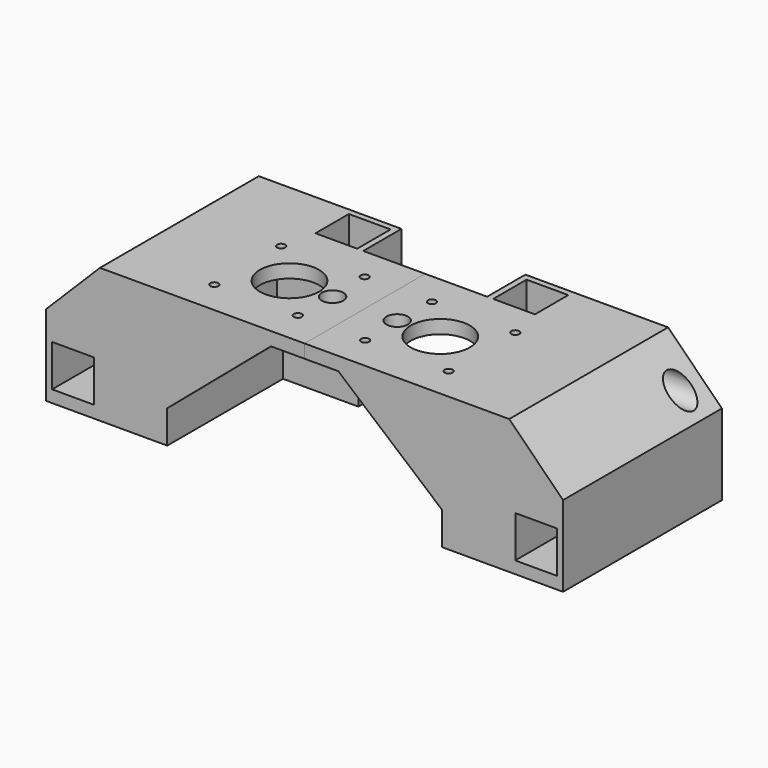
from build123d import *

# Parameters (mm, degrees)
F0_R          = 1.5
F0_R_2        = 4
F0_R_3        = 11
F1_DEPTH      = 5
F2_R          = 5
F2_W          = 56
F2_H          = 5
F2_W_2        = 53.75
F2_H_2        = 25
F2_W_3        = 20
F2_W_4        = 15.5
F2_H_3        = 15.5
F3_DEPTH      = 5
F3_DEPTH_BACK = 40
F4_W          = 15.5
F4_H          = 15.5
F5_DEPTH      = 73.751
F6_DEPTH      = 73.751
F6_DEPTH_BACK = 4
F7_START      = -51
F7_DEPTH      = 5
F8_DEPTH      = 5
F0_W          = 13
F0_H          = 17.75
F9_DEPTH      = 25
F2_R_2        = 2
F10_DEPTH     = 40
F11_DEPTH     = 33
F0_R_4        = 2
F12_DEPTH     = 50.001


with BuildPart() as f1:
    # F0 (on Top) → F1 (new body)
    with BuildSketch(Plane.XY):
        Polygon((28, -28), (28, 28), (15, 28), (15, 23), (-5, 23), (-5, 28), (-28, 28), (-28, -28), align=None)
        with Locations((-15.5, -15.5)):
            Circle(F0_R, mode=Mode.SUBTRACT)
        with Locations((-16, 0)):
            Circle(F0_R_2, mode=Mode.SUBTRACT)
        with Locations((15.5, -15.5)):
            Circle(F0_R, mode=Mode.SUBTRACT)
        Circle(F0_R_3, mode=Mode.SUBTRACT)
        with Locations((-15.5, 15.5)):
            Circle(F0_R, mode=Mode.SUBTRACT)
        with Locations((15.5, 15.5)):
            Circle(F0_R, mode=Mode.SUBTRACT)
        Polygon((15, 23), (15, 28), (12.75, 28), (-2.75, 28), (-5, 28), (-5, 23), align=None)
    extrude(amount=-F1_DEPTH)

    # F2 (on face) → F3 (join, two sides)
    with BuildSketch(Plane.YZ.offset(28)) as f3_sk:
        Polygon((45.75, 0), (28, 0), (28, -5), (-28, -5), (-28, -25), (25.75, -25), (45.75, -25), align=None)
        with Locations((35.75, -12.5)):
            Circle(F2_R, mode=Mode.SUBTRACT)
        with Locations((0, -2.5)):
            Rectangle(F2_W, F2_H)
        Polygon((45.75, 0), (28, 0), (28, -5), (-28, -5), (-28, -25), (25.75, -25), (45.75, -25), align=None)
        with Locations((35.75, -12.5)):
            Circle(F2_R, mode=Mode.SUBTRACT)
        with Locations((-1.125, -37.5)):
            Rectangle(F2_W_2, F2_H_2)
        with Locations((35.75, -37.5)):
            Rectangle(F2_W_3, F2_H_2)
        with Locations((35.75, -37.75)):
            Rectangle(F2_W_4, F2_H_3, mode=Mode.SUBTRACT)
        with Locations((35.75, -37.5)):
            Rectangle(F2_W_3, F2_H_2)
        with Locations((35.75, -37.75)):
            Rectangle(F2_W_4, F2_H_3, mode=Mode.SUBTRACT)
        with Locations((35.75, -37.75)):
            Rectangle(F2_W_4, F2_H_3)
    extrude(amount=-F3_DEPTH)
    extrude(f3_sk.sketch, amount=F3_DEPTH_BACK)

    # F4 (on face) → F5 (cut, through all)
    with BuildSketch(Plane.XZ.offset(28)):
        with Locations((58, -37.75)):
            Rectangle(F4_W, F4_H)
    extrude(amount=-F5_DEPTH, mode=Mode.SUBTRACT)

    # F4 (on face) → F6 (cut, two sides)
    with BuildSketch(Plane.XZ.offset(28)) as f6_sk:
        Polygon((48, 0), (68, -20), (68, 0), align=None)
    extrude(amount=-F6_DEPTH, mode=Mode.SUBTRACT)
    extrude(f6_sk.sketch, amount=F6_DEPTH_BACK, mode=Mode.SUBTRACT)

    # F4 (on face) → F7 (join)
    with BuildSketch(Plane.XZ.offset(28).offset(F7_START)):
        Polygon((-15.5, -5), (23, -37.75), (23, -5), align=None)
    extrude(amount=-F7_DEPTH)

    # F4 (on face) → F8 (join)
    with BuildSketch(Plane.XZ.offset(28)):
        Polygon((-15.5, -5), (23, -37.75), (23, -5), align=None)
    extrude(amount=-F8_DEPTH)

    # F0 (on Top) → F9 (join)
    with BuildSketch(Plane.XY):
        Polygon((12.75, 28), (15, 28), (15, 45.75), (-5, 45.75), (-5, 28), (-2.75, 28), (-2.75, 43.5), (12.75, 43.5), align=None)
        Polygon((15, 23), (15, 28), (12.75, 28), (-2.75, 28), (-5, 28), (-5, 23), align=None)
        with Locations((21.5, 36.875)):
            Rectangle(F0_W, F0_H)
    extrude(amount=-F9_DEPTH)

    # F2 (on face) → F10 (cut)
    with BuildSketch(Plane.YZ.offset(28)):
        with Locations((35.75, -12.5)):
            Circle(F2_R_2)
    extrude(amount=-F10_DEPTH, mode=Mode.SUBTRACT)

    # F2 (on face) → F11 (join)
    with BuildSketch(Plane.YZ.offset(28)):
        with Locations((35.75, -37.5)):
            Rectangle(F2_W_3, F2_H_2)
        with Locations((35.75, -37.75)):
            Rectangle(F2_W_4, F2_H_3, mode=Mode.SUBTRACT)
    extrude(amount=-F11_DEPTH)

    # F0 (on Top) → F12 (cut, through all)
    with BuildSketch(Plane.XY):
        with Locations((5, 35.75)):
            Circle(F0_R_4)
    extrude(amount=-F12_DEPTH, mode=Mode.SUBTRACT)


with BuildPart() as f13_1:
    # F13: instance of F1
    add(f1.part.mirror(Plane(origin=(-28, 0, -2.5), x_dir=(0, -1, 0), z_dir=(-1, 0, 0))))


solid = Compound([f1.part, f13_1.part])
